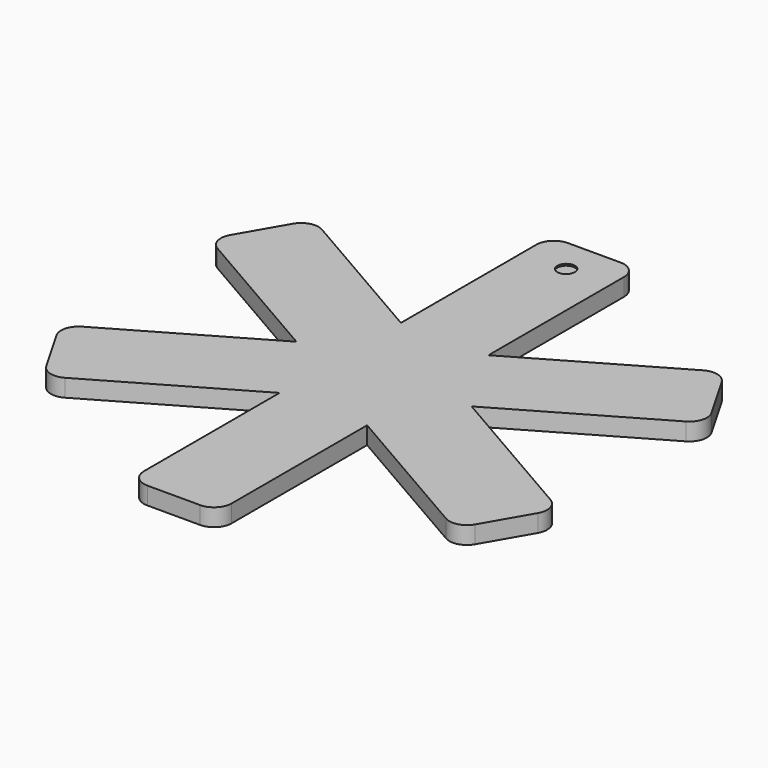
from build123d import *

# Parameters (mm, degrees)
F1_DEPTH = 5
F2_R     = 5
F3_R     = 2.5
F4_DEPTH = 0.5


with BuildPart() as f1:
    # F0 (on Top) → F1 (new body)
    with BuildSketch(Plane.XY):
        Polygon((12.5, 75), (-12.5, 75), (-12.5, 21.650635), (-58.701905, 48.325318), (-71.201905, 26.674682), (-25, 0), (-71.201905, -26.674682), (-58.701905, -48.325318), (-12.5, -21.650635), (-12.5, -75), (12.5, -75), (12.5, -21.650635), (58.701905, -48.325318), (71.201905, -26.674682), (25, 0), (71.201905, 26.674682), (58.701905, 48.325318), (12.5, 21.650635), align=None)
    extrude(amount=F1_DEPTH)

    # F2
    f2_edges = [f1.edges().sort_by_distance(p)[0] for p in [
        (-71.201905, -26.674682, 2.5),
        (-58.701905, -48.325318, 2.5),
        (-12.5, -75, 2.5),
        (12.5, -75, 2.5),
        (-71.201905, 26.674682, 2.5),
        (58.701905, -48.325318, 2.5),
        (71.201905, -26.674682, 2.5),
        (71.201905, 26.674682, 2.5),
        (58.701905, 48.325318, 2.5),
        (12.5, 75, 2.5),
        (-12.5, 75, 2.5),
        (-58.701905, 48.325318, 2.5),
    ]]
    fillet(f2_edges, radius=F2_R)

    # F3 (on face) → F4 (cut)
    with BuildSketch(Plane.XY.offset(5)):
        with Locations((0, 65)):
            Circle(F3_R)
    extrude(amount=-F4_DEPTH, mode=Mode.SUBTRACT)


solid = f1.part
